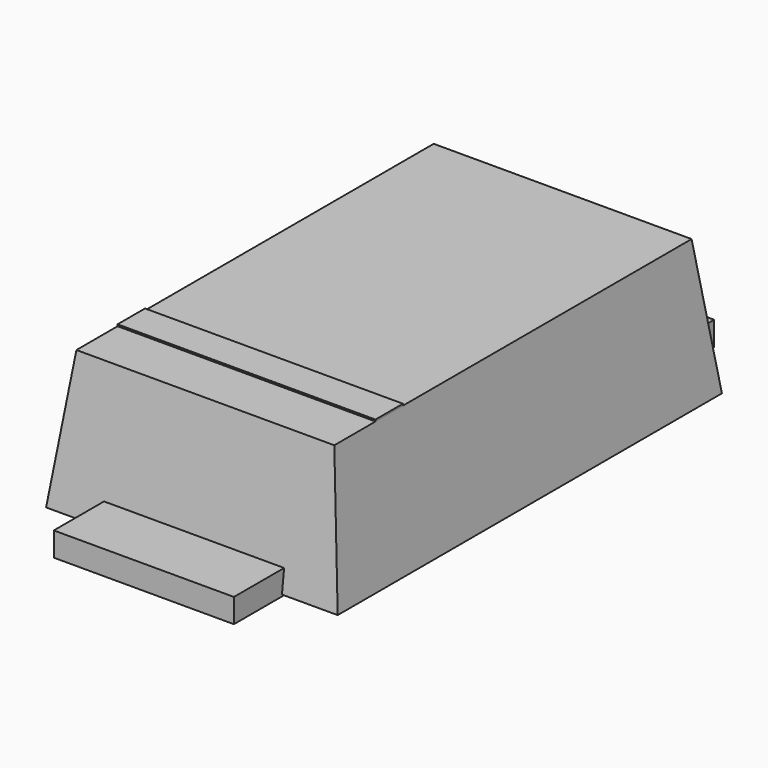
from build123d import *

# Parameters (mm, degrees)
F0_W          = 1.7
F0_H          = 2.8
F1_DEPTH      = 0.8
F1_TAPER      = 7
F2_W          = 1.05
F2_H          = 0.65
F3_DEPTH      = 0.13
F3_DEPTH_BACK = 0.01
F4_W          = 1.5035447026
F4_H          = 0.2
F5_DEPTH      = 0.01


with BuildPart() as f1:
    # F0 (on Top) → F1 (new body)
    with BuildSketch(Plane.XY):
        Rectangle(F0_W, F0_H)
    extrude(amount=F1_DEPTH, taper=F1_TAPER)


with BuildPart() as f3:
    # F2 (on Top) → F3 (new body, two sides)
    with BuildSketch(Plane.XY) as f3_sk:
        with Locations((0, 1.425)):
            Rectangle(F2_W, F2_H)
    extrude(amount=F3_DEPTH)
    extrude(f3_sk.sketch, amount=-F3_DEPTH_BACK)


with BuildPart() as f3b:
    # F2 (on Top) → F3, piece 2 (new body, two sides)
    with BuildSketch(Plane.XY) as f3_2_sk:
        with Locations((0, -1.425)):
            Rectangle(F2_W, F2_H)
    extrude(amount=F3_DEPTH)
    extrude(f3_2_sk.sketch, amount=-F3_DEPTH_BACK)


with BuildPart() as f5:
    # F4 (on face) → F5 (new body)
    with BuildSketch(Plane.XY.offset(0.8)):
        with Locations((0, -0.9017723513)):
            Rectangle(F4_W, F4_H)
    extrude(amount=F5_DEPTH)


solid = Compound([f1.part, f3.part, f3b.part, f5.part])
